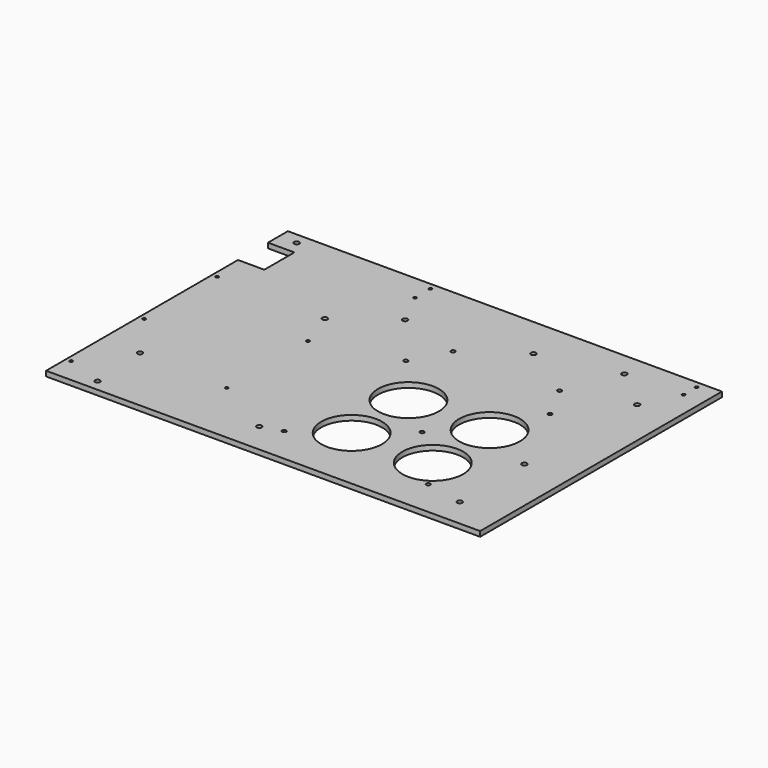
from build123d import *

# Parameters (mm, degrees)
F0_R     = 2.5
F0_R_2   = 1.5
F0_R_3   = 2
F0_R_4   = 30
F1_DEPTH = 5


with BuildPart() as f1:
    # F0 (on Top) → F1 (new body)
    with BuildSketch(Plane.XY):
        Polygon((428, 298), (0, 298), (0, 273.5), (26, 273.5), (26, 236.5), (0, 236.5), (0, 0), (428, 0), align=None)
        with Locations((41.8, 11.2)):
            Circle(F0_R, mode=Mode.SUBTRACT)
        with Locations((5, 24.6)):
            Circle(F0_R_2, mode=Mode.SUBTRACT)
        with Locations((37.9, 68.4)):
            Circle(F0_R, mode=Mode.SUBTRACT)
        with Locations((186.3, 29.9)):
            Circle(F0_R, mode=Mode.SUBTRACT)
        with Locations((206, 36)):
            Circle(F0_R_3, mode=Mode.SUBTRACT)
        with Locations((126.5, 64.6)):
            Circle(F0_R_2, mode=Mode.SUBTRACT)
        with Locations((5, 114.6)):
            Circle(F0_R_2, mode=Mode.SUBTRACT)
        with Locations((248.5, 66)):
            Circle(F0_R_4, mode=Mode.SUBTRACT)
        with Locations((348, 36)):
            Circle(F0_R_3, mode=Mode.SUBTRACT)
        with Locations((385.4, 28.2)):
            Circle(F0_R, mode=Mode.SUBTRACT)
        with Locations((328.5, 66)):
            Circle(F0_R_4, mode=Mode.SUBTRACT)
        with Locations((290, 101)):
            Circle(F0_R_3, mode=Mode.SUBTRACT)
        with Locations((248.5, 136)):
            Circle(F0_R_4, mode=Mode.SUBTRACT)
        with Locations((384.8, 108.6)):
            Circle(F0_R, mode=Mode.SUBTRACT)
        with Locations((328.5, 136)):
            Circle(F0_R_4, mode=Mode.SUBTRACT)
        with Locations((5, 204.6)):
            Circle(F0_R_2, mode=Mode.SUBTRACT)
        with Locations((126.5, 164.6)):
            Circle(F0_R_2, mode=Mode.SUBTRACT)
        with Locations((206, 186)):
            Circle(F0_R_3, mode=Mode.SUBTRACT)
        with Locations((113.3, 202)):
            Circle(F0_R, mode=Mode.SUBTRACT)
        with Locations((17.5, 287)):
            Circle(F0_R, mode=Mode.SUBTRACT)
        with Locations((162.8, 239)):
            Circle(F0_R, mode=Mode.SUBTRACT)
        with Locations((145.8, 272.5)):
            Circle(F0_R_2, mode=Mode.SUBTRACT)
        with Locations((145.8, 291.5)):
            Circle(F0_R_2, mode=Mode.SUBTRACT)
        with Locations((224.5, 221)):
            Circle(F0_R_3, mode=Mode.SUBTRACT)
        with Locations((348, 186)):
            Circle(F0_R_3, mode=Mode.SUBTRACT)
        with Locations((329.5, 221)):
            Circle(F0_R_3, mode=Mode.SUBTRACT)
        with Locations((275.3, 256.6)):
            Circle(F0_R, mode=Mode.SUBTRACT)
        with Locations((390.8, 240.1)):
            Circle(F0_R, mode=Mode.SUBTRACT)
        with Locations((351, 274)):
            Circle(F0_R, mode=Mode.SUBTRACT)
        with Locations((408.3, 275.5)):
            Circle(F0_R_2, mode=Mode.SUBTRACT)
        with Locations((408.3, 291.5)):
            Circle(F0_R_2, mode=Mode.SUBTRACT)
    extrude(amount=F1_DEPTH)


solid = f1.part
